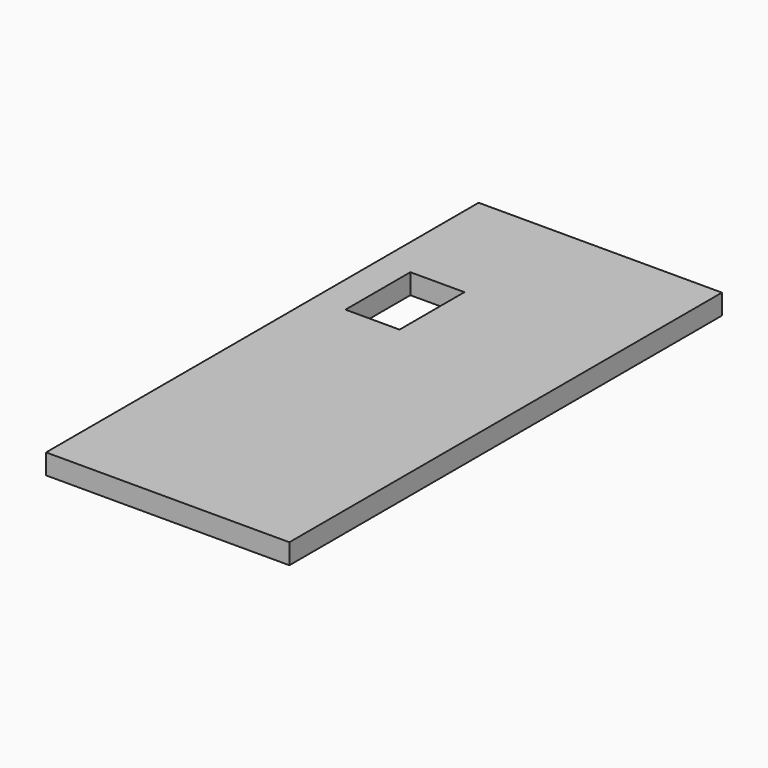
from build123d import *

# Parameters (mm, degrees)
BOX020_W                = 12
BOX020_H                = 30
BOX020_DEPTH            = 8
BOX019_W                = 80
BOX019_H                = 3
BOX019_DEPTH            = 36
BODY007_PLACEMENT_ANGLE = 90


with BuildPart() as micro_usb_hole:
    # Box020 → Box020 (new body)
    with BuildSketch(Plane(origin=(0, -18.5, 4.7), x_dir=(0, -1, 0), z_dir=(0, 0, 1))):
        with Locations((6, 15)):
            Rectangle(BOX020_W, BOX020_H)
    extrude(amount=BOX020_DEPTH)


with BuildPart() as model_wall_with_micro_usb_clone:
    # Box019 → Box019 (new body)
    with BuildSketch(Plane(origin=(0, 0, 0), x_dir=(0, -1, 0), z_dir=(0, 0, 1))):
        with Locations((40, 1.5)):
            Rectangle(BOX019_W, BOX019_H)
    extrude(amount=BOX019_DEPTH)

    # Cut008: cut micro usb hole
    add(micro_usb_hole.part, mode=Mode.SUBTRACT)


with BuildPart() as model_wall_with_micro_usb_clone_1:
    # Cut008 placement: moved
    add(model_wall_with_micro_usb_clone.part.moved(Location((-12, 80, -3))))


with BuildPart() as model_wall_with_micro_usb_clone_2:
    # Body007 placement: moved
    add(model_wall_with_micro_usb_clone_1.part.rotate(Axis((0, 0, 0), (0, 1, 0)), BODY007_PLACEMENT_ANGLE))


solid = model_wall_with_micro_usb_clone_2.part
